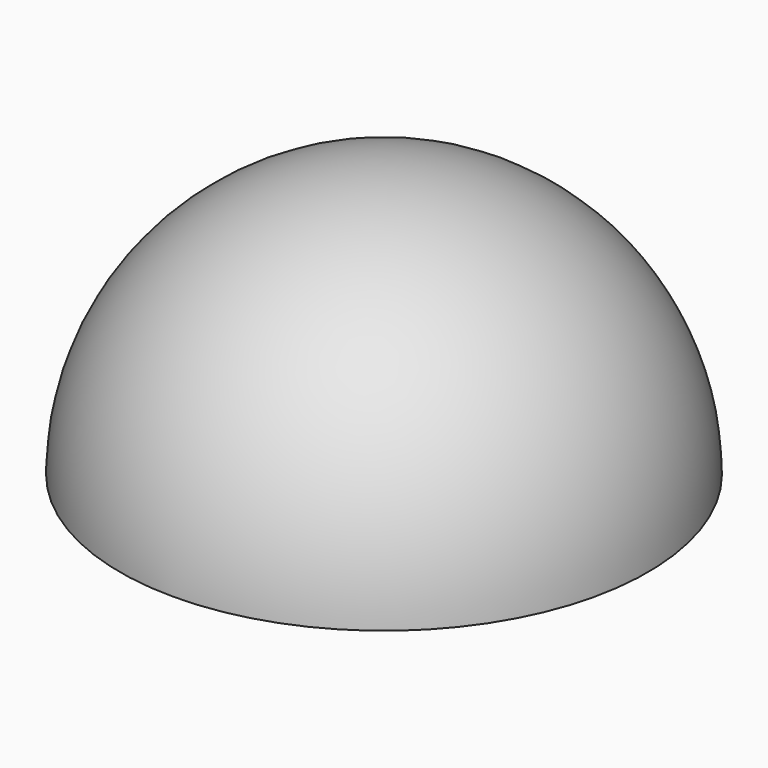
from build123d import *

# Parameters (mm, degrees)
SPHERE_ANGLE         = 180
BODY_PLACEMENT_ANGLE = 90


with BuildPart() as part:
    # Sphere → Sphere (revolve)
    with BuildSketch(Plane.XZ):
        with BuildLine():
            ThreePointArc((0, -15), (15, 0), (0, 15))
            Line((0, 15), (0, -15))
        make_face()
    revolve(axis=Axis((0, 0, 0), (0, 0, 1)), revolution_arc=SPHERE_ANGLE)


with BuildPart() as part_1:
    # Body placement: moved
    add(part.part.rotate(Axis((0, 0, 0), (1, 0, 0)), BODY_PLACEMENT_ANGLE))


solid = part_1.part
